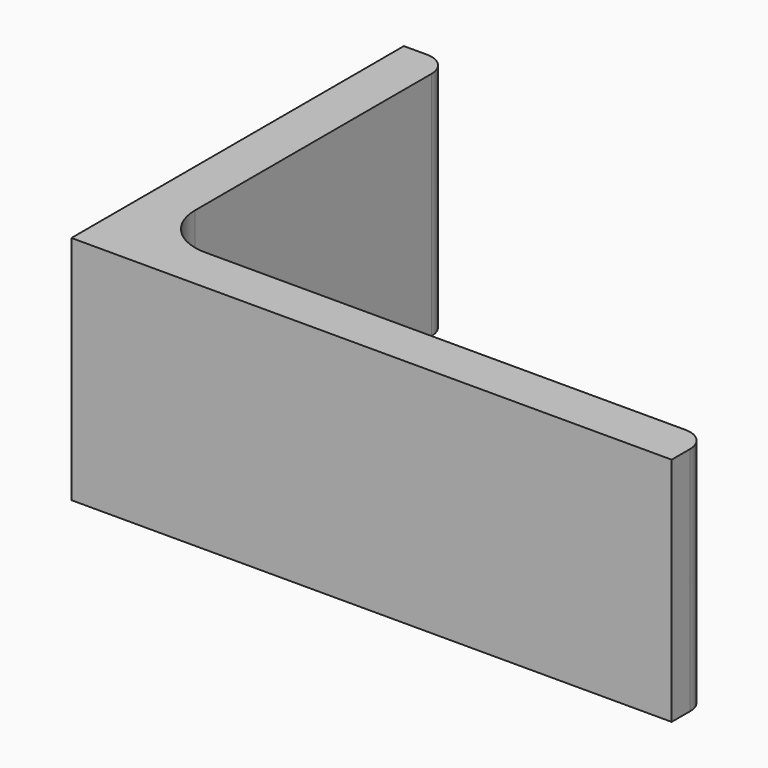
from build123d import *

# Parameters (mm, degrees)
EXTRUDE_DEPTH = 50


with BuildPart() as part:
    # Sketch → Extrude (new body)
    with BuildSketch(Plane.XY):
        with BuildLine():
            Line((0, 0), (130, 0))
            Line((130, 0), (130, 5))
            ThreePointArc((130, 5), (128.535534, 8.535534), (125, 10))
            Line((125, 10), (21, 10))
            ThreePointArc((10, 21), (13.221825, 13.221825), (21, 10))
            Line((10, 85), (10, 21))
            ThreePointArc((10, 85), (8.535534, 88.535534), (5, 90))
            Line((0, 90), (5, 90))
            Line((0, 0), (0, 90))
        make_face()
    extrude(amount=EXTRUDE_DEPTH)


solid = part.part
